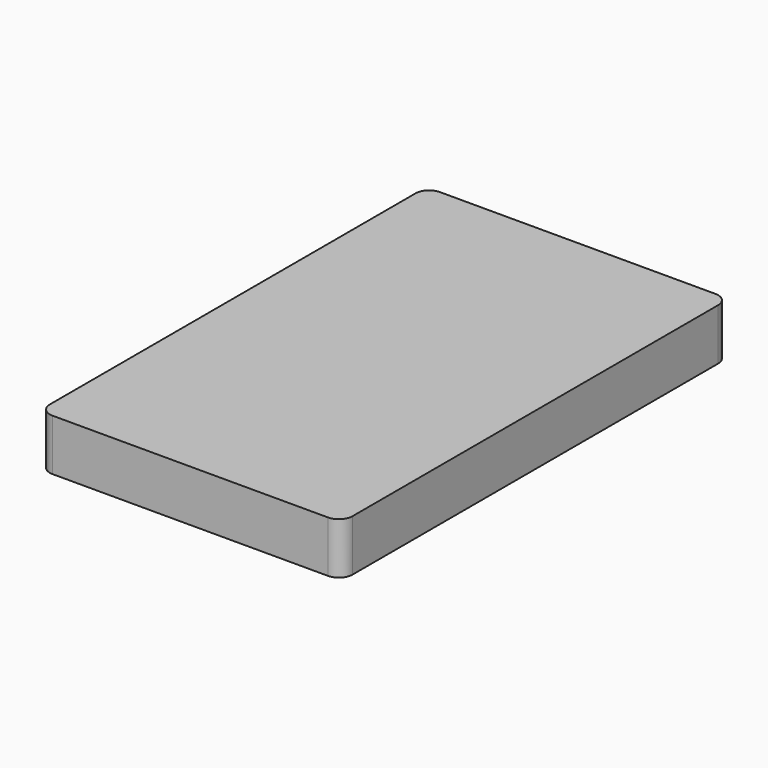
from build123d import *

# Parameters (mm, degrees)
F2_DEPTH = 17


with BuildPart() as f2:
    # F1 (on offset) → F2 (new body)
    with BuildSketch(Plane.XY.offset(-17)):
        with BuildLine():
            ThreePointArc((0, 4.5), (1.318019, 1.318019), (4.5, 0))
            Line((4.5, 0), (50, 0))
            Line((50, 0), (95.5, 0))
            ThreePointArc((95.5, 0), (98.681981, 1.318019), (100, 4.5))
            Line((100, 4.5), (100, 155.5))
            ThreePointArc((100, 155.5), (98.681981, 158.681981), (95.5, 160))
            Line((95.5, 160), (50, 160))
            Line((50, 160), (4.5, 160))
            ThreePointArc((4.5, 160), (1.318019, 158.681981), (0, 155.5))
            Line((0, 155.5), (0, 4.5))
        make_face()
    extrude(amount=F2_DEPTH)


solid = f2.part
